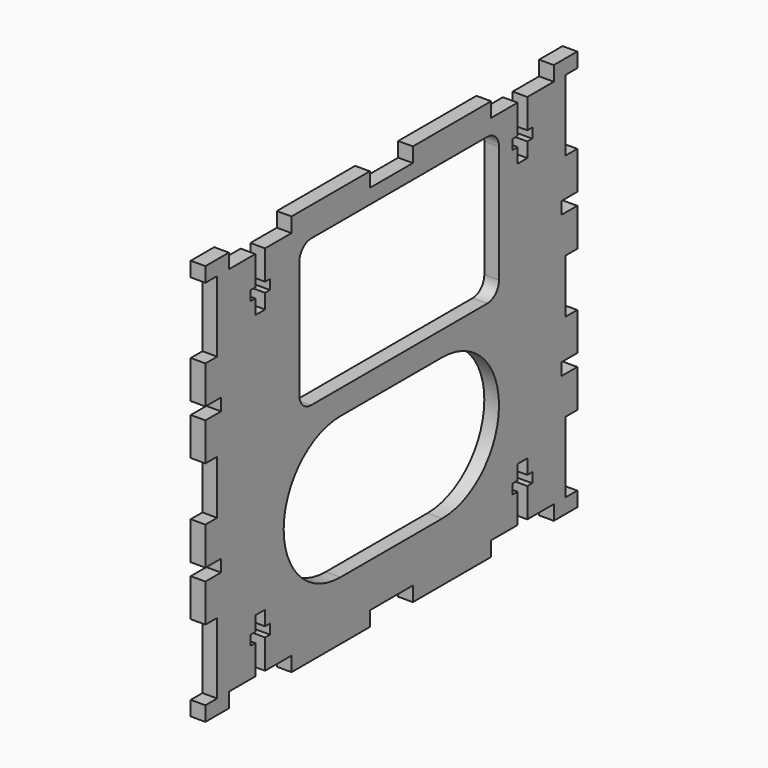
from build123d import *

# Parameters (mm, degrees)
SKETCH020_W                   = 95
SKETCH020_H                   = 82
PAD005_DEPTH                  = 3
SKETCH021_W                   = 11
SKETCH021_H                   = 3
SKETCH021_W_2                 = 16
SKETCH021_W_3                 = 3
SKETCH021_H_2                 = 14.5
SKETCH021_H_3                 = 11
POCKET015_DEPTH               = 254.062745
SKETCH021_MIRRORED019_2_W     = 11
SKETCH021_MIRRORED019_2_H     = 3
SKETCH021_MIRRORED019_2_W_2   = 16
SKETCH021_MIRRORED019_2_W_3   = 3
SKETCH021_MIRRORED019_2_H_2   = 14.5
SKETCH021_MIRRORED019_2_H_3   = 11
POCKET015_MIRRORED019_2_DEPTH = 254.062745
SKETCH022_W                   = 4
SKETCH022_H                   = 2.5
POCKET016_DEPTH               = 254.062745
POCKET017_DEPTH               = 3.001
SKETCH022_MIRRORED026_2_W     = 4
SKETCH022_MIRRORED026_2_H     = 2.5
POCKET016_MIRRORED026_2_DEPTH = 254.062745


with BuildPart() as part:
    # Sketch020 → Pad005 (new body)
    with BuildSketch(Plane.YZ):
        Rectangle(SKETCH020_W, SKETCH020_H)
    extrude(amount=PAD005_DEPTH)

    # Sketch021 → Pocket015 (cut, through all)
    with BuildSketch(Plane.YZ):
        with Locations((0, 39.5)):
            Rectangle(SKETCH021_W, SKETCH021_H)
        with Locations((-33.5, 39.5)):
            Rectangle(SKETCH021_W_2, SKETCH021_H)
        with Locations((33.5, 39.5)):
            Rectangle(SKETCH021_W_2, SKETCH021_H)
        with Locations((-46, 30.75)):
            Rectangle(SKETCH021_W_3, SKETCH021_H_2)
        with Locations((-46, 0)):
            Rectangle(SKETCH021_W_3, SKETCH021_H_3)
    pocket015 = extrude(amount=POCKET015_DEPTH, mode=Mode.SUBTRACT)

    # Sketch021 Mirrored019 2 → Pocket015 Mirrored019 2 (cut, through all)
    with BuildSketch(Plane(origin=(0, 0, 0), x_dir=(0, 1, 0), z_dir=(-1, 0, 0))):
        with Locations((0, 39.5)):
            Rectangle(SKETCH021_MIRRORED019_2_W, SKETCH021_MIRRORED019_2_H)
        with Locations((-33.5, 39.5)):
            Rectangle(SKETCH021_MIRRORED019_2_W_2, SKETCH021_MIRRORED019_2_H)
        with Locations((33.5, 39.5)):
            Rectangle(SKETCH021_MIRRORED019_2_W_2, SKETCH021_MIRRORED019_2_H)
        with Locations((-46, 30.75)):
            Rectangle(SKETCH021_MIRRORED019_2_W_3, SKETCH021_MIRRORED019_2_H_2)
        with Locations((-46, 0)):
            Rectangle(SKETCH021_MIRRORED019_2_W_3, SKETCH021_MIRRORED019_2_H_3)
    pocket015_mirrored019_2 = extrude(amount=-POCKET015_MIRRORED019_2_DEPTH, mode=Mode.SUBTRACT)

    # Mirrored028: Pocket015, Pocket015 Mirrored019 2 across Sketch021 V_Axis
    add(pocket015.mirror(Plane(origin=(0, 0, 0), x_dir=(1, 0, 0), z_dir=(0, 1, 0))), mode=Mode.SUBTRACT)
    add(pocket015_mirrored019_2.mirror(Plane(origin=(0, 0, 0), x_dir=(1, 0, 0), z_dir=(0, 1, 0))), mode=Mode.SUBTRACT)

    # Sketch022 → Pocket016 (cut, through all)
    with BuildSketch(Plane.YZ):
        Polygon((-32.25, 41), (-32.25, 32), (-31, 32), (-31, 30), (-32.25, 30), (-32.25, 27), (-34.75, 27), (-34.75, 30), (-36, 30), (-36, 32), (-34.75, 32), (-34.75, 41), align=None)
        with Locations((-45.5, 14.5)):
            Rectangle(SKETCH022_W, SKETCH022_H)
    pocket016 = extrude(amount=POCKET016_DEPTH, mode=Mode.SUBTRACT)

    # Sketch023 → Pocket017 (cut, through all)
    with BuildSketch(Plane.YZ):
        with BuildLine():
            Line((-20.5, 5), (24.5, 5))
            ThreePointArc((24.5, 5), (26.62132, 5.87868), (27.5, 8))
            Line((27.5, 8), (27.5, 32))
            ThreePointArc((27.5, 32), (26.62132, 34.12132), (24.5, 35))
            Line((24.5, 35), (-20.5, 35))
            ThreePointArc((-20.5, 35), (-22.62132, 34.12132), (-23.5, 32))
            Line((-23.5, 32), (-23.5, 8))
            ThreePointArc((-23.5, 8), (-22.62132, 5.87868), (-20.5, 5))
        make_face()
        with BuildLine():
            ThreePointArc((-13, 0), (-27.5, -14.5), (-13, -29))
            Line((-13, -29), (13, -29))
            ThreePointArc((13, -29), (27.5, -14.5), (13, 0))
            Line((-13, 0), (13, 0))
        make_face()
    extrude(amount=POCKET017_DEPTH, mode=Mode.SUBTRACT)

    # Sketch022 Mirrored026 2 → Pocket016 Mirrored026 2 (cut, through all)
    with BuildSketch(Plane(origin=(0, 0, 0), x_dir=(0, -1, 0), z_dir=(-1, 0, 0))):
        Polygon((-32.25, 41), (-32.25, 32), (-31, 32), (-31, 30), (-32.25, 30), (-32.25, 27), (-34.75, 27), (-34.75, 30), (-36, 30), (-36, 32), (-34.75, 32), (-34.75, 41), align=None)
        with Locations((-45.5, 14.5)):
            Rectangle(SKETCH022_MIRRORED026_2_W, SKETCH022_MIRRORED026_2_H)
    pocket016_mirrored026_2 = extrude(amount=-POCKET016_MIRRORED026_2_DEPTH, mode=Mode.SUBTRACT)

    # Mirrored027: Pocket016, Pocket016 Mirrored026 2 across Sketch022 H_Axis
    add(pocket016.mirror(Plane.XY), mode=Mode.SUBTRACT)
    add(pocket016_mirrored026_2.mirror(Plane.XY), mode=Mode.SUBTRACT)


with BuildPart() as part_1:
    # Body005 placement: moved
    add(part.part.moved(Location((57, 0, 0))))


solid = part_1.part
